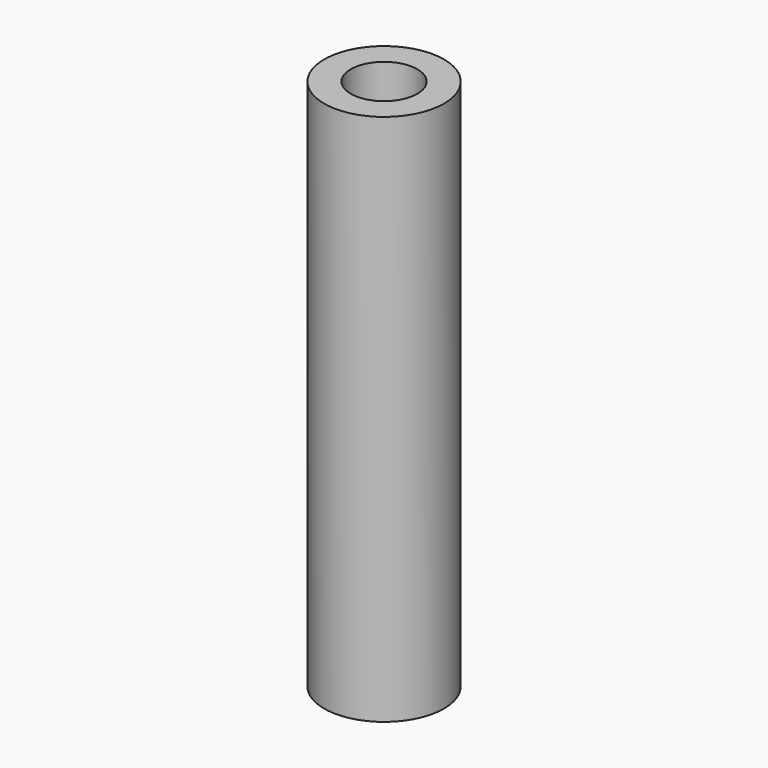
from build123d import *

# Parameters (mm, degrees)
SKETCH_R   = 2.25
SKETCH_R_2 = 1.25
PAD_DEPTH  = 20


with BuildPart() as part:
    # Sketch → Pad (new body)
    with BuildSketch(Plane.XY):
        Circle(SKETCH_R)
        Circle(SKETCH_R_2, mode=Mode.SUBTRACT)
    extrude(amount=PAD_DEPTH)


solid = part.part
